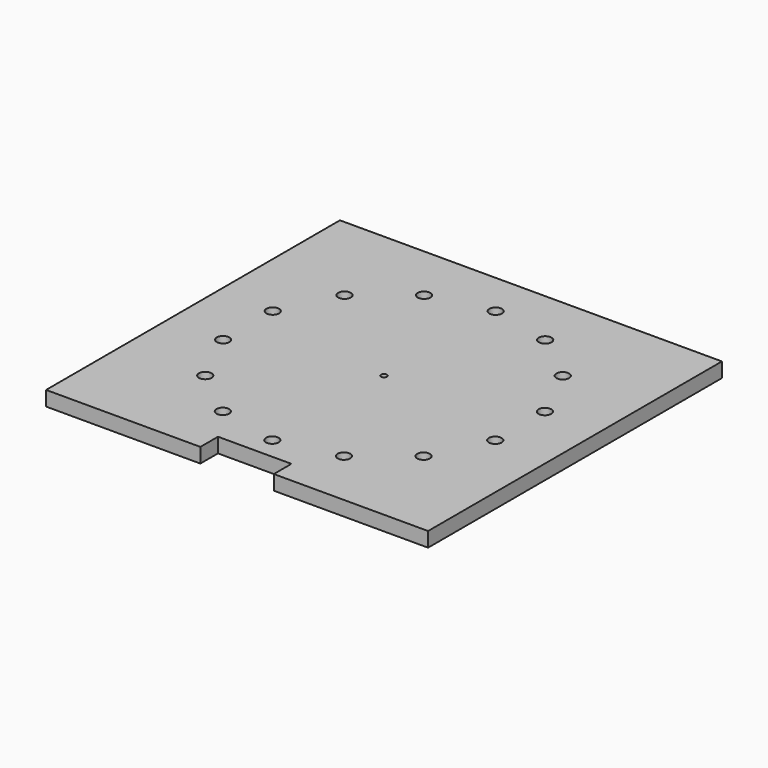
from build123d import *

# Parameters (mm, degrees)
F0_W           = 520
F0_H           = 500
F1_DEPTH       = 20
F3_D           = 11
F3_CBORE_D     = 17.25
F3_CBORE_DEPTH = 10
F4_D           = 8
F5_W           = 100
F5_H           = 30
F6_DEPTH       = 20.001


with BuildPart() as f1:
    # F0 (on Top) → F1 (new body)
    with BuildSketch(Plane.XY):
        Rectangle(F0_W, F0_H)
    extrude(amount=F1_DEPTH)

    # F3 (through all)
    with Locations(Plane.XY.offset(20)):
        with Locations((0, 190), (82.4379104323, 171.1840849015), (148.5479816689, 118.4630623532), (185.2363033145, 42.2789774517), (185.2363033145, -42.2789774517), (148.5479816689, -118.4630623532), (82.4379104323, -171.1840849015), (0, -190), (-82.4379104323, -171.1840849015), (-148.5479816689, -118.4630623532), (-185.2363033145, -42.2789774517), (-185.2363033145, 42.2789774517), (-148.5479816689, 118.4630623532), (-82.4379104323, 171.1840849015)):
            CounterBoreHole(F3_D / 2, F3_CBORE_D / 2, F3_CBORE_DEPTH)

    # F4 (through all)
    with Locations(Plane.XY.offset(20)):
        with Locations((0, 0)):
            Hole(F4_D / 2)

    # F5 (on face) → F6 (cut, through all)
    with BuildSketch(Plane.XY.offset(20)):
        with Locations((0, -235)):
            Rectangle(F5_W, F5_H)
    extrude(amount=-F6_DEPTH, mode=Mode.SUBTRACT)


solid = f1.part
